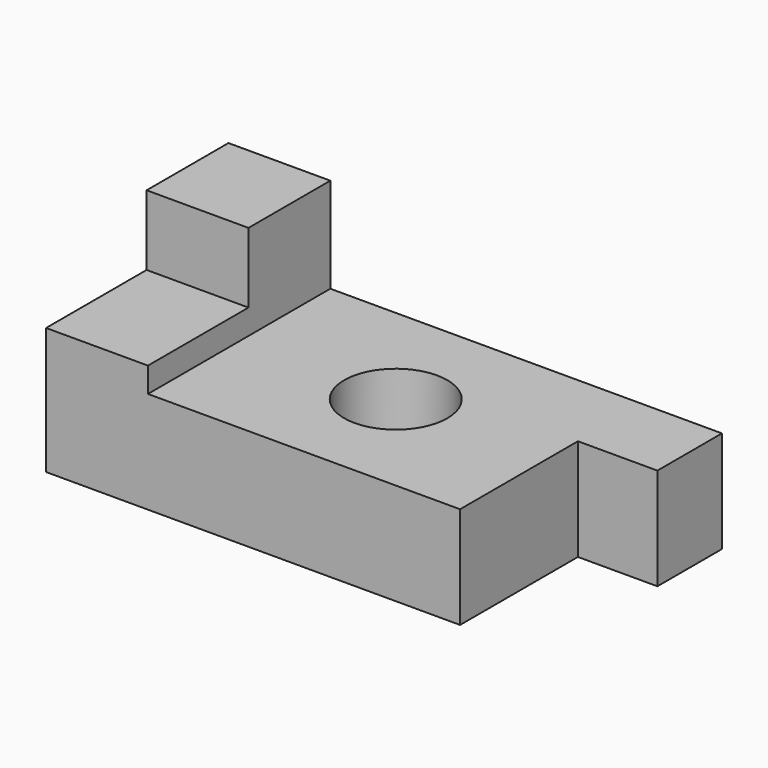
from build123d import *

# Parameters (mm, degrees)
F0_R     = 12.858823
F0_W     = 19.820329
F0_H     = 20.111802
F1_DEPTH = 25.4
F2_W     = 25.504097
F2_H     = 17.488524
F3_DEPTH = 25.4


with BuildPart() as f1:
    # F0 (on Top) → F1 (new body)
    with BuildSketch(Plane.XY):
        Polygon((38.766231, 25.504097), (-39.057706, 25.504097), (-39.057706, -31.333605), (38.766231, -31.333605), (38.766231, 5.392295), align=None)
        with Locations((0, -2.914754)):
            Circle(F0_R, mode=Mode.SUBTRACT)
        with Locations((48.676395, 15.448196)):
            Rectangle(F0_W, F0_H)
    extrude(amount=F1_DEPTH)

    # F2 (on face) → F3 (join)
    with BuildSketch(Plane(origin=(-39.057706, 0, 0), x_dir=(0, -1, 0), z_dir=(-1, 0, 0))):
        with Locations((-12.752048, 40.369343)):
            Rectangle(F2_W, F2_H)
        Polygon((0, 31.625081), (-25.504097, 31.625081), (-25.504097, 0), (31.333605, 0), (31.333605, 31.625081), align=None)
    extrude(amount=F3_DEPTH)


solid = f1.part
